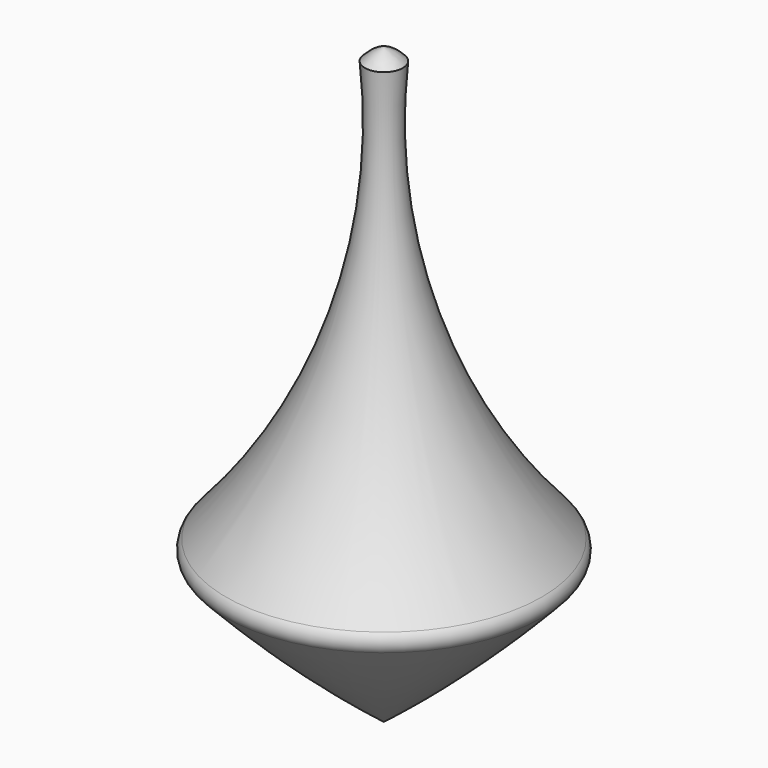
from build123d import *


with BuildPart() as f1:
    # F0 (on Front) → F1 (revolve)
    with BuildSketch(Plane.XZ):
        with BuildLine():
            ThreePointArc((13.013331, 13.284992), (3.61832, 29.397809), (1.563841, 47.9361))
            ThreePointArc((1.563841, 47.9361), (0.856659, 48.557145), (0, 48.946939))
            Line((0, 48.946939), (0, 0))
            ThreePointArc((0, 0), (6.734725, 5.640666), (13.013331, 11.784992))
            ThreePointArc((13.013331, 11.784992), (13.311289, 12.534992), (13.013331, 13.284992))
        make_face()
    revolve(axis=Axis((0, 0, 22.707885), (0, 0, -1)))


solid = f1.part
